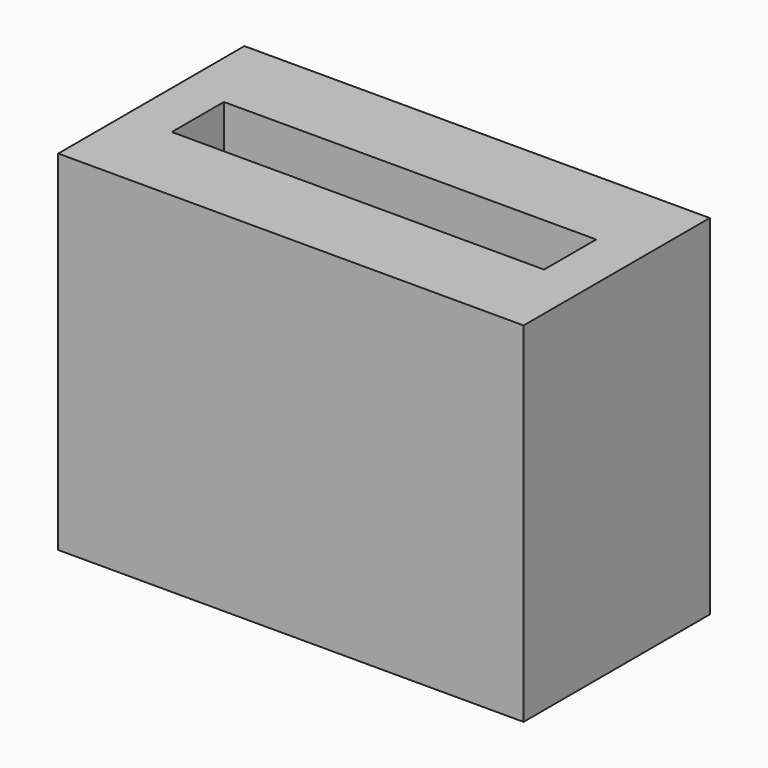
from build123d import *

# Parameters (mm, degrees)
F0_W     = 16
F0_H     = 2.8
F0_R     = 1.2
F1_DEPTH = 2.6
F0_W_2   = 20
F0_H_2   = 10
F2_DEPTH = 15


with BuildPart() as f1:
    # F0 (on Top) → F1 (new body)
    with BuildSketch(Plane.XY):
        with Locations((5, 0)):
            Rectangle(F0_W, F0_H)
        Circle(F0_R, mode=Mode.SUBTRACT)
        with Locations((5, 0)):
            Circle(F0_R, mode=Mode.SUBTRACT)
        with Locations((10, 0)):
            Circle(F0_R, mode=Mode.SUBTRACT)
    extrude(amount=F1_DEPTH)

    # F0 (on Top) → F2 (join)
    with BuildSketch(Plane.XY):
        with Locations((5, 0)):
            Rectangle(F0_W_2, F0_H_2)
        with Locations((5, 0)):
            Rectangle(F0_W, F0_H, mode=Mode.SUBTRACT)
    extrude(amount=F2_DEPTH)


solid = f1.part
